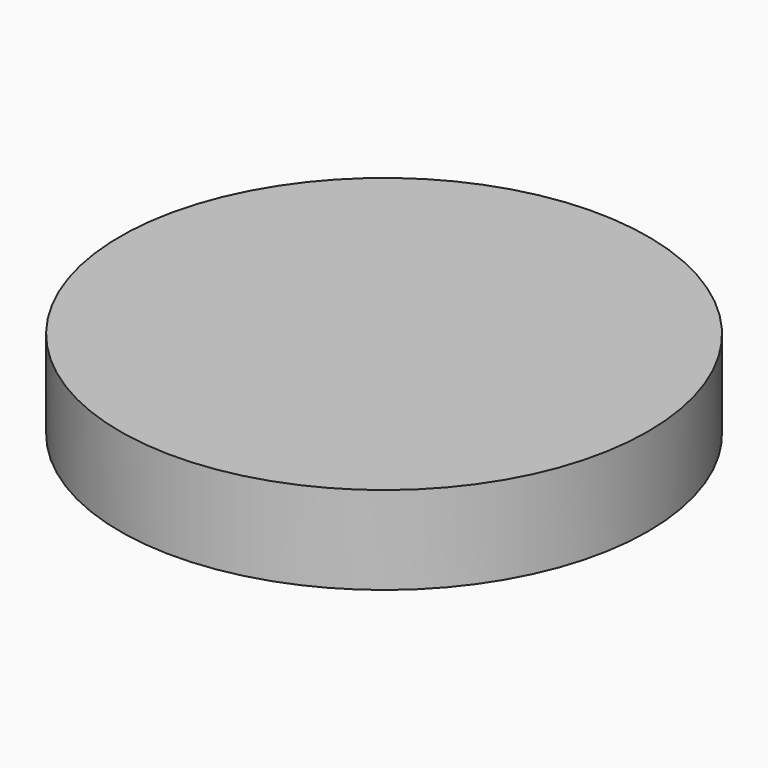
from build123d import *

# Parameters (mm, degrees)
F0_R     = 28.575
F1_DEPTH = 9.525
F2_R     = 23.8125
F3_DEPTH = 2.54
F4_R     = 19.773545
F5_DEPTH = 6.35


with BuildPart() as f1:
    # F0 (on Top) → F1 (new body)
    with BuildSketch(Plane.XY):
        Circle(F0_R)
    extrude(amount=F1_DEPTH)

    # F2 (on face) → F3 (cut)
    with BuildSketch(Plane(origin=(0, 0, 0), x_dir=(1, 0, 0), z_dir=(0, 0, -1))):
        Circle(F2_R)
    extrude(amount=-F3_DEPTH, mode=Mode.SUBTRACT)

    # F4 (on face) → F5 (cut)
    with BuildSketch(Plane(origin=(0, 0, 2.54), x_dir=(1, 0, 0), z_dir=(0, 0, -1))):
        Circle(F4_R)
    extrude(amount=-F5_DEPTH, mode=Mode.SUBTRACT)


solid = f1.part
